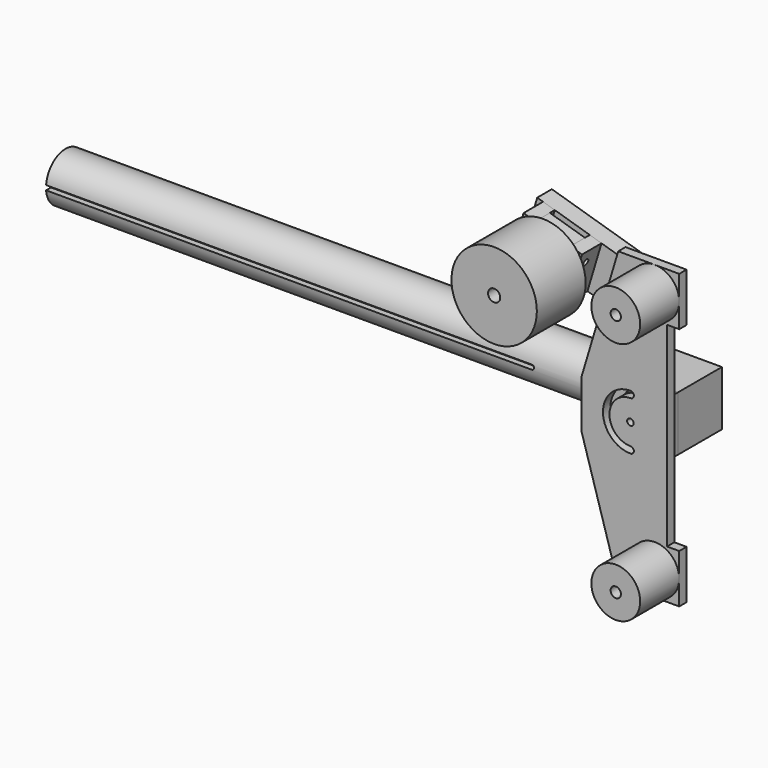
from build123d import *

# Parameters (mm, degrees)
F0_R      = 25.4
F0_R_2    = 19.05
F1_DEPTH  = 609.6
F4_DEPTH  = 25.4
F3_W      = 57.15
F3_H      = 57.15
F5_DEPTH  = 50.8
F6_W      = 76.2
F6_H      = 57.15
F6_R      = 6.731
F6_R_2    = 3.175
F7_DEPTH  = 12.7
F8_DEPTH  = 25.4
F9_R      = 5.35813
F9_R_2    = 3.3782
F10_DEPTH = 9.525
F11_R     = 25.4
F11_R_2   = 5.35813
F12_DEPTH = 50.8
F14_R     = 6.35
F15_DEPTH = 15.875
F16_START = 15.875
F13_R     = 6.35
F13_R_2   = 3.175
F13_R_3   = 3.3782
F16_DEPTH = 19.05
F18_DEPTH = 25.4
F19_R     = 3.3782
F20_DEPTH = 25.4
F21_R     = 3.175
F22_DEPTH = 25.4
F23_W     = 19.05
F23_H     = 50.8
F23_R     = 3.3782
F24_DEPTH = 38.1
F25_R     = 6.35
F26_DEPTH = 25.4
F27_DEPTH = 25.4
F28_R     = 44.45
F28_R_2   = 6.35
F29_DEPTH = 63.5


with BuildPart() as f1:
    # F0 (on Right) → F1 (new body)
    with BuildSketch(Plane.YZ):
        Circle(F0_R)
        Circle(F0_R_2, mode=Mode.SUBTRACT)
    extrude(amount=F1_DEPTH)

    # F2 (on Front) → F4 (cut)
    with BuildSketch(Plane.XZ):
        with BuildLine():
            Line((505.61875, 2.38125), (0, 2.38125))
            Line((0, 2.38125), (0, -2.38125))
            Line((0, -2.38125), (505.61875, -2.38125))
            ThreePointArc((505.61875, -2.38125), (508, 0), (505.61875, 2.38125))
        make_face()
    extrude(amount=F4_DEPTH, mode=Mode.SUBTRACT)


with BuildPart() as f5:
    # F3 (on face) → F5 (new body)
    with BuildSketch(Plane.YZ.offset(609.6)):
        Rectangle(F3_W, F3_H)
    extrude(amount=F5_DEPTH)

    # F6 (on face) → F8 (cut)
    with BuildSketch(Plane.XZ.offset(28.575)):
        with Locations((647.7, -15.875)):
            Circle(F6_R)
        with Locations((647.7, 15.875)):
            Circle(F6_R)
        with Locations((622.3, 15.875)):
            Circle(F6_R)
        with Locations((622.3, -15.875)):
            Circle(F6_R)
    extrude(amount=-F8_DEPTH, mode=Mode.SUBTRACT)


with BuildPart() as f7:
    # F6 (on face) → F7 (new body)
    with BuildSketch(Plane.XZ.offset(28.575)):
        with Locations((622.3, 0)):
            Rectangle(F6_W, F6_H)
        with Locations((622.3, -15.875)):
            Circle(F6_R, mode=Mode.SUBTRACT)
        with Locations((647.7, -15.875)):
            Circle(F6_R, mode=Mode.SUBTRACT)
        with Locations((603.25, 0)):
            Circle(F6_R_2, mode=Mode.SUBTRACT)
        with Locations((622.3, 15.875)):
            Circle(F6_R, mode=Mode.SUBTRACT)
        with Locations((628.65, 0)):
            Circle(F6_R_2, mode=Mode.SUBTRACT)
        with Locations((647.7, 15.875)):
            Circle(F6_R, mode=Mode.SUBTRACT)
    extrude(amount=F7_DEPTH)


with BuildPart() as f10:
    # F9 (on face) → F10 (new body)
    with BuildSketch(Plane.XZ.offset(41.275)):
        Polygon((679.45, 152.4), (615.95, 152.4), (577.85, 25.4), (577.85, -25.4), (615.95, -152.4), (679.45, -152.4), (679.45, -101.6), (666.75, -101.6), (666.75, 101.6), (679.45, 101.6), align=None)
        with Locations((654.05, -127)):
            Circle(F9_R, mode=Mode.SUBTRACT)
        with BuildLine():
            ThreePointArc((628.8532, 28.7782), (632.2314, 25.4), (628.8532, 22.0218))
            ThreePointArc((628.8532, 22.0218), (606.8314, 0), (628.8532, -22.0218))
            ThreePointArc((628.8532, -22.0218), (632.2314, -25.4), (628.8532, -28.7782))
            ThreePointArc((628.8532, -28.7782), (600.075, 0), (628.8532, 28.7782))
        make_face(mode=Mode.SUBTRACT)
        with Locations((628.65, 0)):
            Circle(F9_R_2, mode=Mode.SUBTRACT)
        with Locations((654.05, 127)):
            Circle(F9_R, mode=Mode.SUBTRACT)
    extrude(amount=F10_DEPTH)

    # F13 (on face) → F27 (cut)
    with BuildSketch(Plane(origin=(0, -41.275, 0), x_dir=(-1, 0, 0), z_dir=(0, 1, 0))):
        with Locations((-617.1664393822, 112.2575003864)):
            Circle(F13_R)
        with Locations((-609.8678030888, 87.9287127418)):
            Circle(F13_R)
    extrude(amount=-F27_DEPTH, mode=Mode.SUBTRACT)


with BuildPart() as f12:
    # F11 (on face) → F12 (new body)
    with BuildSketch(Plane.XZ.offset(50.8)):
        with Locations((654.05, 127)):
            Circle(F11_R)
        with Locations((654.05, 127)):
            Circle(F11_R_2, mode=Mode.SUBTRACT)
    extrude(amount=F12_DEPTH)


with BuildPart() as f12b:
    # F11 (on face) → F12, piece 2 (new body)
    with BuildSketch(Plane.XZ.offset(50.8)):
        with Locations((654.05, -127)):
            Circle(F11_R)
        with Locations((654.05, -127)):
            Circle(F11_R_2, mode=Mode.SUBTRACT)
    extrude(amount=F12_DEPTH)


with BuildPart() as f15:
    # F14 (on face) → F15 (new body)
    with BuildSketch(Plane(origin=(0, -41.275, 0), x_dir=(-1, 0, 0), z_dir=(0, 1, 0))):
        Polygon((-608.6513637066, 128.0712123554), (-632.9801513512, 120.772576062), (-618.3828787645, 72.1150007728), (-594.0540911198, 79.4136370661), align=None)
        with Locations((-609.8678030888, 87.9287127418)):
            Circle(F14_R, mode=Mode.SUBTRACT)
        with Locations((-617.1664393822, 112.2575003864)):
            Circle(F14_R, mode=Mode.SUBTRACT)
    extrude(amount=F15_DEPTH)


with BuildPart() as f16:
    # F13 (on face) → F16 (new body)
    with BuildSketch(Plane(origin=(0, -41.275, 0), x_dir=(-1, 0, 0), z_dir=(0, 1, 0)).offset(F16_START)):
        Polygon((-511.3362131281, 157.2657575289), (-632.9801513512, 120.772576062), (-618.3828787645, 72.1150007728), (-496.7389405414, 108.6081822397), align=None)
        with Locations((-609.8678030888, 87.9287127418)):
            Circle(F13_R, mode=Mode.SUBTRACT)
        with Locations((-617.1664393822, 112.2575003864)):
            Circle(F13_R, mode=Mode.SUBTRACT)
        with Locations((-561.2102277996, 102.5259853285)):
            Circle(F13_R_2, mode=Mode.SUBTRACT)
        with Locations((-536.881440155, 109.8246216219)):
            Circle(F13_R_3, mode=Mode.SUBTRACT)
        with Locations((-568.508864093, 126.8547729732)):
            Circle(F13_R_2, mode=Mode.SUBTRACT)
        with Locations((-512.5526525104, 117.1232579153)):
            Circle(F13_R_2, mode=Mode.SUBTRACT)
        with Locations((-519.8512888038, 141.4520455599)):
            Circle(F13_R_2, mode=Mode.SUBTRACT)
    extrude(amount=F16_DEPTH)


with BuildPart() as f18:
    # F17 (on face) → F18 (new body)
    with BuildSketch(Plane.XZ.offset(25.4)):
        Polygon((529.5828038616, 151.7917803089), (517.4184100393, 155.4410984556), (502.8211374525, 106.7835231663), (514.9855312748, 103.1342050197), align=None)
    extrude(amount=F18_DEPTH)

    # F19 (on face) → F20 (cut)
    with BuildSketch(Plane(origin=(431.9138353235, 0, -129.5741505971), x_dir=(0, -1, 0), z_dir=(-0.9578262852, 0, 0.2873478856))):
        with Locations((41.275, 284.8646559823)):
            Circle(F19_R)
    extrude(amount=-F20_DEPTH, mode=Mode.SUBTRACT)


with BuildPart() as f18b:
    # F17 (on face) → F18, piece 2 (new body)
    with BuildSketch(Plane.XZ.offset(25.4)):
        Polygon((578.2403791508, 137.1945077221), (566.0759853285, 140.8438258688), (551.4787127418, 92.1862505796), (563.6431065641, 88.5369324329), align=None)
    extrude(amount=F18_DEPTH)

    # F21 (on face) → F22 (cut)
    with BuildSketch(Plane(origin=(480.5714106127, 0, -144.1714231838), x_dir=(0, -1, 0), z_dir=(-0.9578262852, 0, 0.2873478856))):
        with Locations((41.275, 284.8646559823)):
            Circle(F21_R)
    extrude(amount=-F22_DEPTH, mode=Mode.SUBTRACT)


with BuildPart() as f24:
    # F23 (on face) → F24 (new body)
    with BuildSketch(Plane(origin=(480.5714106127, 0, -144.1714231838), x_dir=(0, -1, 0), z_dir=(-0.9578262852, 0, 0.2873478856))):
        with Locations((41.275, 272.1646559823)):
            Rectangle(F23_W, F23_H)
        with Locations((41.275, 284.8646559823)):
            Circle(F23_R, mode=Mode.SUBTRACT)
    extrude(amount=F24_DEPTH)

    # F25 (on face) → F26 (cut)
    with BuildSketch(Plane.XZ.offset(50.8)):
        with Locations((537.6113037843, 112.2575003864)):
            Circle(F25_R)
    extrude(amount=-F26_DEPTH, mode=Mode.SUBTRACT)


with BuildPart() as f29:
    # F28 (on face) → F29 (new body)
    with BuildSketch(Plane.XZ.offset(50.8)):
        with Locations((537.6113037843, 112.2575003864)):
            Circle(F28_R)
        with Locations((537.6113037843, 112.2575003864)):
            Circle(F28_R_2, mode=Mode.SUBTRACT)
    extrude(amount=F29_DEPTH)


solid = Compound([f1.part, f5.part, f7.part, f10.part, f12.part, f12b.part, f15.part, f16.part, f18.part, f18b.part, f24.part, f29.part])
